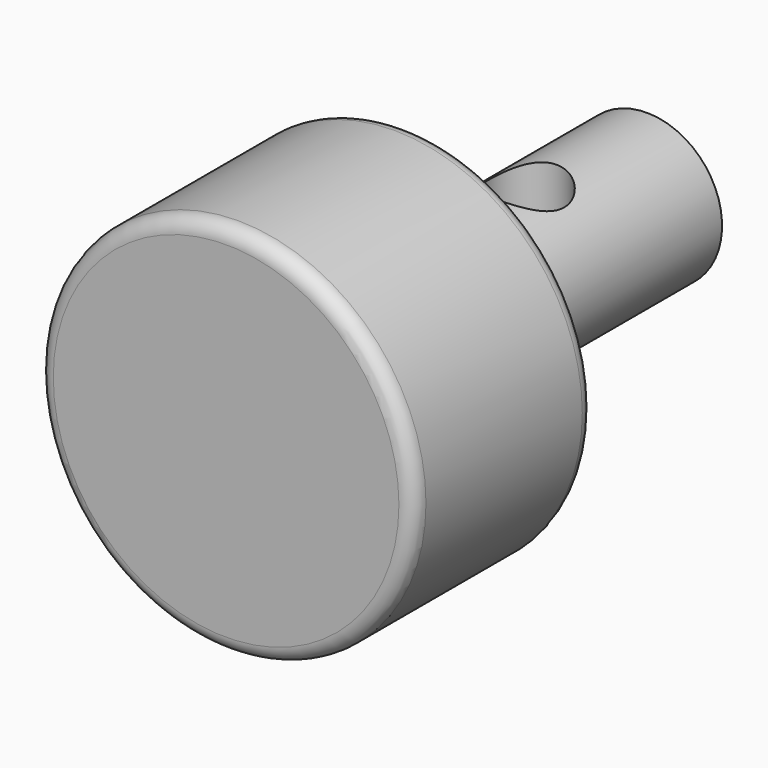
from build123d import *

# Parameters (mm, degrees)
F0_R     = 15.875
F1_DEPTH = 19.05
F2_R     = 1.27
F3_R     = 6.35
F4_DEPTH = 25.4
F5_R     = 3.175
F6_DEPTH = 12.7


with BuildPart() as f1:
    # F0 (on Front) → F1 (new body)
    with BuildSketch(Plane.XZ):
        Circle(F0_R)
    extrude(amount=-F1_DEPTH)

    # F2
    f2_edges = [f1.edges().sort_by_distance(p)[0] for p in [
        (-15.875, 19.05, 0),
        (-15.875, 0, 0),
    ]]
    fillet(f2_edges, radius=F2_R)

    # F3 (on face) → F4 (join)
    with BuildSketch(Plane(origin=(0, 19.05, 0), x_dir=(-1, 0, 0), z_dir=(0, 1, 0))):
        Circle(F3_R)
    extrude(amount=F4_DEPTH)

    # F5 (on Top) → F6 (cut, symmetric)
    with BuildSketch(Plane.XY):
        with Locations((0, 31.75)):
            Circle(F5_R)
    extrude(amount=F6_DEPTH, both=True, mode=Mode.SUBTRACT)


solid = f1.part
